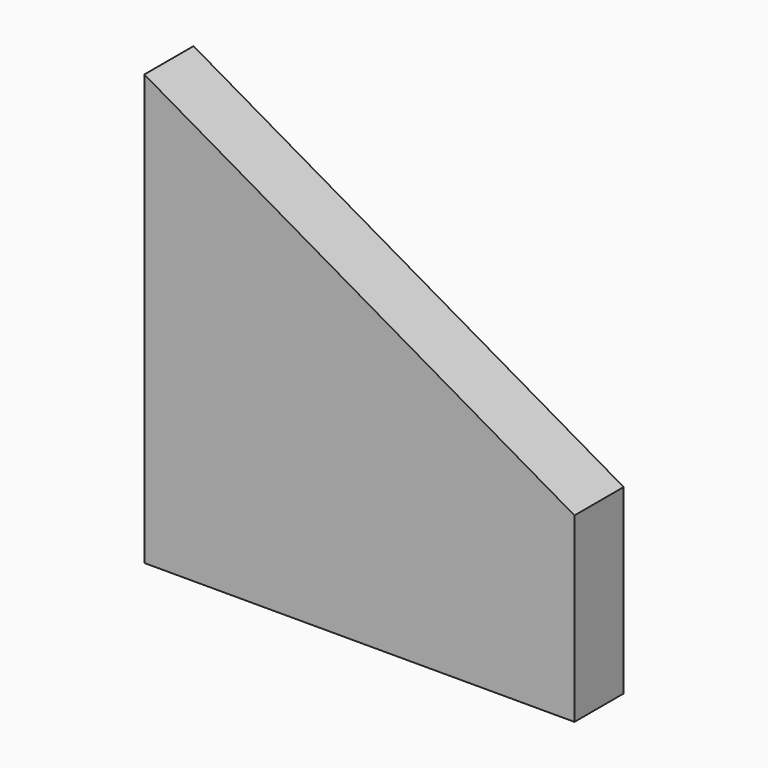
from build123d import *

# Parameters (mm, degrees)
PAD_DEPTH = 6.35


with BuildPart() as part:
    # Sketch → Pad (new body)
    with BuildSketch(Plane.XZ):
        Polygon((0, 0), (44.45, 0), (44.45, 18.786781), (0, 44.45), align=None)
    extrude(amount=PAD_DEPTH)


solid = part.part
